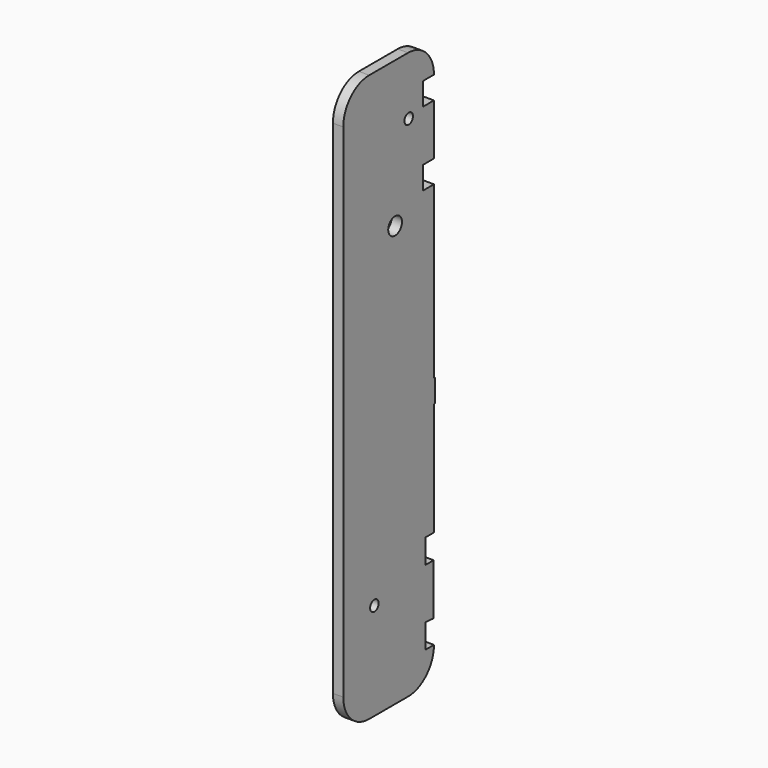
from build123d import *

# Parameters (mm, degrees)
F0_R     = 1.65
F0_R_2   = 2.65
F1_DEPTH = 3.2


with BuildPart() as f1:
    # F0 (on Right) → F1 (new body)
    with BuildSketch(Plane.YZ):
        with BuildLine():
            Line((7.340266, 138.708294), (-7.659734, 138.708294))
            ThreePointArc((-7.659734, 138.708294), (-14.730802, 135.779362), (-17.659734, 128.708294))
            Line((-17.659734, 128.708294), (-17.659734, 61.94946))
            Line((-17.659734, 61.94946), (-17.659734, -19.05054))
            Line((-17.659734, -19.05054), (-17.659734, -26.291706))
            ThreePointArc((-17.659734, -26.291706), (-14.730802, -33.362774), (-7.659734, -36.291706))
            Line((-7.659734, -36.291706), (7.340266, -36.291706))
            ThreePointArc((7.340266, -36.291706), (14.411333, -33.362774), (17.340266, -26.291706))
            Line((17.340266, -26.291706), (14.140266, -26.291706))
            Line((14.140266, -26.291706), (14.140266, -18.791706))
            Line((14.140266, -18.791706), (17.240266, -19.05054))
            Line((17.240266, -19.05054), (17.240266, -3.25054))
            Line((17.240266, -3.25054), (14.140266, -3.25054))
            Line((14.140266, -3.25054), (14.140266, 4.24946))
            Line((14.140266, 4.24946), (17.340266, 4.24946))
            Line((17.340266, 4.24946), (17.340266, 10.94946))
            Line((17.340266, 10.94946), (17.340266, 17.94946))
            Line((17.340266, 17.94946), (17.340266, 39.14946))
            Line((17.340266, 39.14946), (17.780266, 39.14946))
            Line((17.780266, 39.14946), (17.780266, 46.14946))
            Line((17.780266, 46.14946), (17.340266, 46.14946))
            Line((17.340266, 46.14946), (17.340266, 74.04946))
            Line((17.340266, 74.04946), (17.340266, 81.04946))
            Line((17.340266, 81.04946), (17.340266, 98.908294))
            Line((17.340266, 98.908294), (13.140266, 98.908294))
            Line((13.140266, 98.908294), (13.140266, 105.908294))
            Line((13.140266, 105.908294), (17.340266, 105.908294))
            Line((17.340266, 105.908294), (17.340266, 108.124746))
            Line((17.340266, 108.124746), (17.340266, 118.424746))
            Line((17.340266, 118.424746), (17.340266, 121.708294))
            Line((17.340266, 121.708294), (13.140266, 121.708294))
            Line((13.140266, 121.708294), (13.140266, 128.708294))
            Line((13.140266, 128.708294), (17.340266, 128.708294))
            ThreePointArc((17.340266, 128.708294), (14.411333, 135.779362), (7.340266, 138.708294))
        make_face()
        with Locations((-5.659734, -6.291706)):
            Circle(F0_R, mode=Mode.SUBTRACT)
        with Locations((2.340266, 93.708294)):
            Circle(F0_R_2, mode=Mode.SUBTRACT)
        with Locations((7.592909, 120.708294)):
            Circle(F0_R, mode=Mode.SUBTRACT)
    extrude(amount=F1_DEPTH)


solid = f1.part
